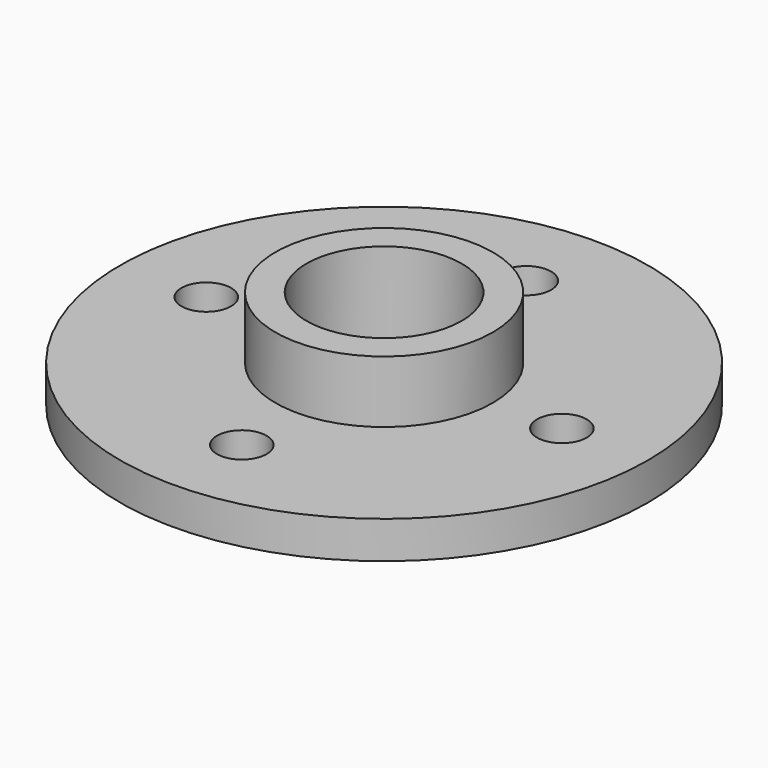
from build123d import *

# Parameters (mm, degrees)
F0_R     = 42.5
F0_R_2   = 4
F0_R_3   = 12.5
F1_DEPTH = 6
F2_R     = 17.5
F2_R_2   = 12.5
F3_DEPTH = 10


with BuildPart() as f1:
    # F0 (on Top) → F1 (new body)
    with BuildSketch(Plane.XY):
        Circle(F0_R)
        with Locations((0, -28.630458)):
            Circle(F0_R_2, mode=Mode.SUBTRACT)
        with Locations((-28.630458, 0)):
            Circle(F0_R_2, mode=Mode.SUBTRACT)
        Circle(F0_R_3, mode=Mode.SUBTRACT)
        with Locations((28.630458, 0)):
            Circle(F0_R_2, mode=Mode.SUBTRACT)
        with Locations((0, 28.630458)):
            Circle(F0_R_2, mode=Mode.SUBTRACT)
    extrude(amount=F1_DEPTH)

    # F2 (on face) → F3 (join)
    with BuildSketch(Plane.XY.offset(6)):
        Circle(F2_R)
        Circle(F2_R_2, mode=Mode.SUBTRACT)
    extrude(amount=F3_DEPTH)


solid = f1.part
